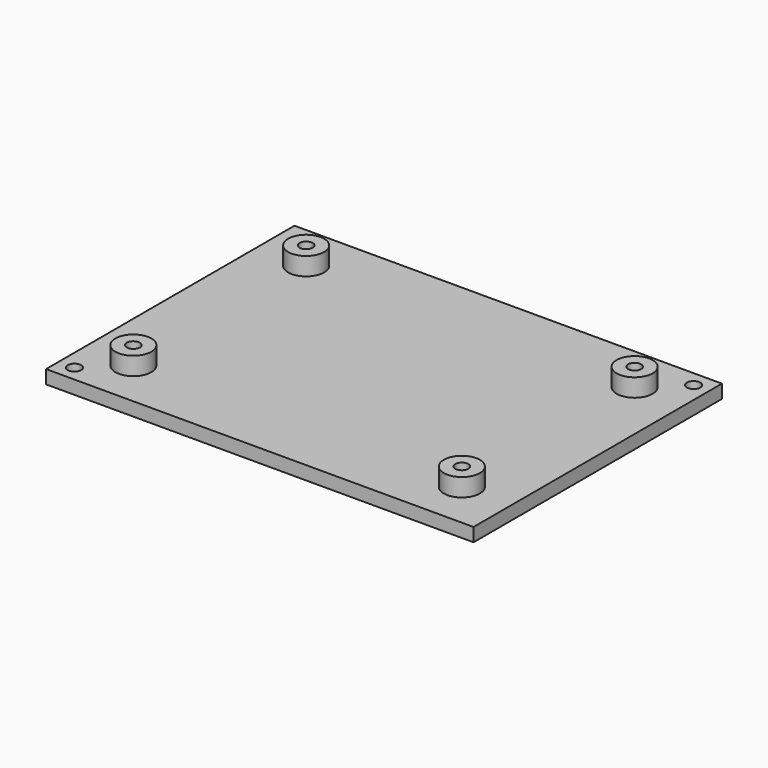
from build123d import *

# Parameters (mm, degrees)
SKETCH_W     = 95
SKETCH_H     = 69
SKETCH_R     = 1.5
PAD_DEPTH    = 3
SKETCH001_R  = 4
PAD001_DEPTH = 4
SKETCH002_R  = 1.45
POCKET_DEPTH = 5


with BuildPart() as part:
    # Sketch → Pad (new body)
    with BuildSketch(Plane.XY):
        Rectangle(SKETCH_W, SKETCH_H)
        with Locations((-44, -31)):
            Circle(SKETCH_R, mode=Mode.SUBTRACT)
        with Locations((44, 31)):
            Circle(SKETCH_R, mode=Mode.SUBTRACT)
    extrude(amount=PAD_DEPTH)

    # Sketch001 (on Face8 of Pad) → Pad001 (join)
    with BuildSketch(Plane.XY.offset(3)):
        with Locations((-36.5, 24)):
            Circle(SKETCH001_R)
        with Locations((-36.5, -24)):
            Circle(SKETCH001_R)
        with Locations((36.5, -24)):
            Circle(SKETCH001_R)
        with Locations((36.5, 24)):
            Circle(SKETCH001_R)
    extrude(amount=PAD001_DEPTH)

    # Sketch002 (on Face14 of Pad001) → Pocket (cut)
    with BuildSketch(Plane.XY.offset(7)):
        with Locations((-36.5, 24)):
            Circle(SKETCH002_R)
        with Locations((-36.5, -24)):
            Circle(SKETCH002_R)
        with Locations((36.5, 24)):
            Circle(SKETCH002_R)
        with Locations((36.5, -24)):
            Circle(SKETCH002_R)
    extrude(amount=-POCKET_DEPTH, mode=Mode.SUBTRACT)


solid = part.part
